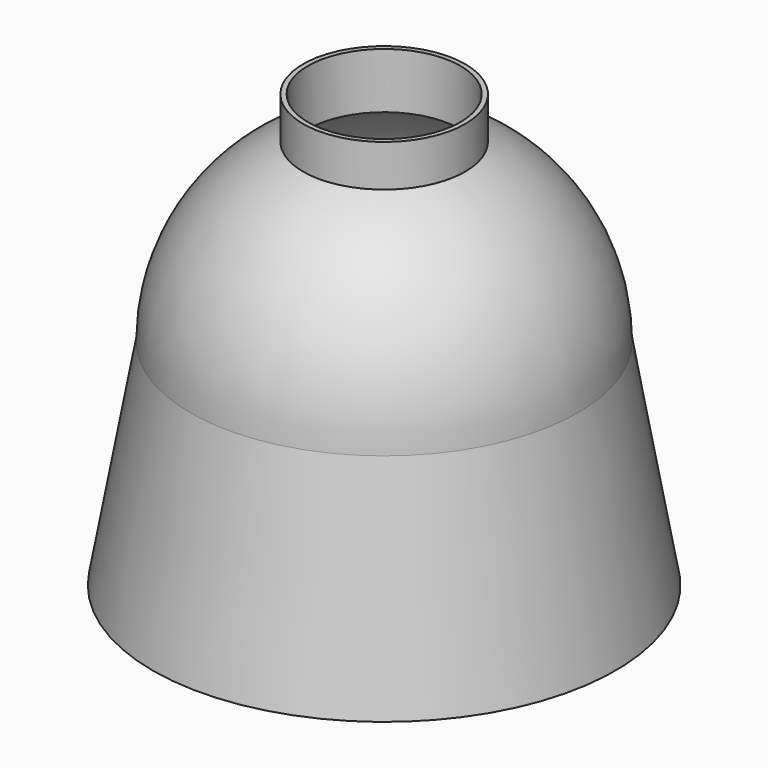
from build123d import *

# Parameters (mm, degrees)
F2_R     = 21.2725
F2_R_2   = 20
F3_DEPTH = 57.15
F4_DEPTH = 57.151
F5_DEPTH = 42.545


with BuildPart() as f1:
    # F0 (on Front) → F1 (revolve)
    with BuildSketch(Plane.XZ):
        with BuildLine():
            Line((0, 48.26), (0, 50.8))
            ThreePointArc((0, 50.8), (-35.921024, 35.921024), (-50.8, 0))
            Line((-50.8, 0), (-48.26, 0))
            ThreePointArc((-48.26, 0), (-34.124973, 34.124973), (0, 48.26))
        make_face()
        Polygon((-48.26, 0), (-50.8, 0), (-60.723993, -56.281763), (-58.183993, -56.281763), align=None)
    revolve(axis=Axis((0, 0, -2.740882), (0, 0, -1)))

    # F2 (on Top) → F3 (join)
    with BuildSketch(Plane.XY):
        Circle(F2_R)
        Circle(F2_R_2, mode=Mode.SUBTRACT)
    extrude(amount=F3_DEPTH)

    # F2 (on Top) → F4 (cut, through all)
    with BuildSketch(Plane.XY):
        Circle(F2_R_2)
    extrude(amount=F4_DEPTH, mode=Mode.SUBTRACT)

    # F2 (on Top) → F5 (cut)
    with BuildSketch(Plane.XY):
        Circle(F2_R_2)
        Circle(F2_R)
        Circle(F2_R_2, mode=Mode.SUBTRACT)
    extrude(amount=F5_DEPTH, mode=Mode.SUBTRACT)


solid = f1.part
